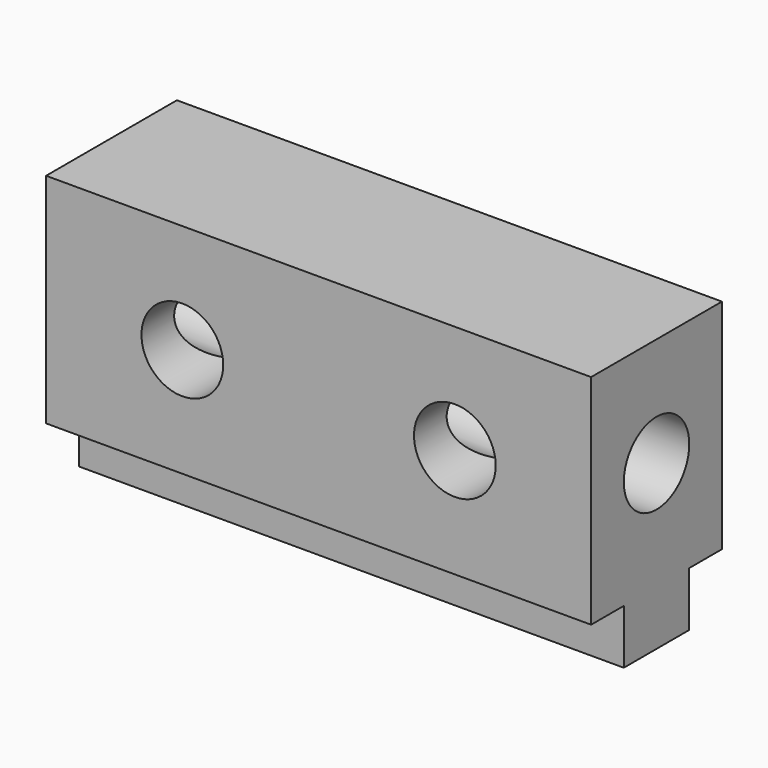
from build123d import *

# Parameters (mm, degrees)
F0_W     = 127
F0_H     = 63.5
F1_DEPTH = 38.1
F2_W     = 9.525
F2_H     = 12.7
F3_DEPTH = 127
F4_W     = 9.525
F4_H     = 12.7
F5_DEPTH = 127
F6_R     = 9.525
F7_DEPTH = 127
F8_R     = 9.525
F9_DEPTH = 38.1


with BuildPart() as f1:
    # F0 (on Front) → F1 (new body)
    with BuildSketch(Plane.XZ):
        with Locations((-14.240475, -10.65432)):
            Rectangle(F0_W, F0_H)
    extrude(amount=F1_DEPTH)

    # F2 (on face) → F3 (cut)
    with BuildSketch(Plane.YZ.offset(49.259525)):
        with Locations((-33.3375, -36.05432)):
            Rectangle(F2_W, F2_H)
    extrude(amount=-F3_DEPTH, mode=Mode.SUBTRACT)

    # F4 (on face) → F5 (cut)
    with BuildSketch(Plane.YZ.offset(49.259525)):
        with Locations((-4.7625, -36.05432)):
            Rectangle(F4_W, F4_H)
    extrude(amount=-F5_DEPTH, mode=Mode.SUBTRACT)

    # F6 (on face) → F7 (cut)
    with BuildSketch(Plane.YZ.offset(49.259525)):
        with Locations((-19.05, -4.30432)):
            Circle(F6_R)
    extrude(amount=-F7_DEPTH, mode=Mode.SUBTRACT)

    # F8 (on face) → F9 (cut)
    with BuildSketch(Plane.XZ.offset(38.1)):
        with Locations((-45.990475, -4.30432)):
            Circle(F8_R)
        with Locations((17.509525, -4.30432)):
            Circle(F8_R)
    extrude(amount=-F9_DEPTH, mode=Mode.SUBTRACT)


solid = f1.part
